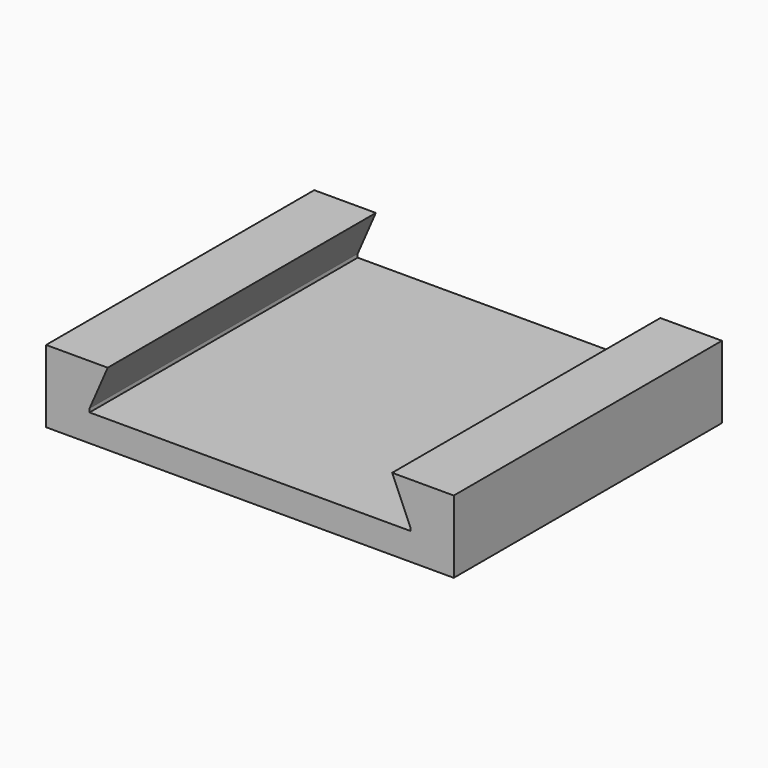
from build123d import *

# Parameters (mm, degrees)
F0_W     = 45
F0_H     = 37
F1_DEPTH = 8
F3_DEPTH = 37.001


with BuildPart() as f1:
    # F0 (on Top) → F1 (new body)
    with BuildSketch(Plane.XY):
        Rectangle(F0_W, F0_H)
    extrude(amount=F1_DEPTH)

    # F2 (on face) → F3 (cut, through all)
    with BuildSketch(Plane.XZ.offset(18.5)):
        Polygon((15.7, 8), (-15.7, 8), (-17.7, 3.392867), (-17.7, 3), (17.7, 3), (17.7, 3.392867), align=None)
    extrude(amount=-F3_DEPTH, mode=Mode.SUBTRACT)


solid = f1.part
